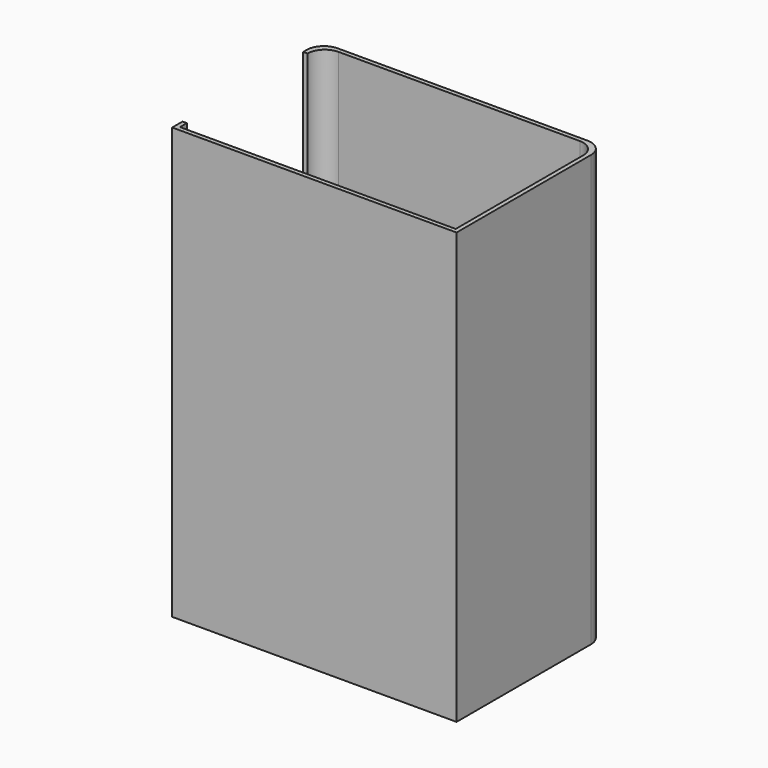
from build123d import *

# Parameters (mm, degrees)
F0_W     = 12.7
F0_H     = 25.4
F1_DEPTH = 1270


with BuildPart() as f1:
    # F0 (on Top) → F1 (new body)
    with BuildSketch(Plane.XY):
        with Locations((-412.75, 19.05)):
            Rectangle(F0_W, F0_H)
        Polygon((-406.4, 6.35), (-419.1, 6.35), (-419.1, -6.35), (419.1, -6.35), (419.1, 6.35), (406.4, 6.35), align=None)
        with BuildLine():
            Line((406.4, 476.25), (406.4, 6.35))
            Line((406.4, 6.35), (419.1, 6.35))
            Line((419.1, 6.35), (419.1, 488.95))
            ThreePointArc((419.1, 488.95), (404.221024, 524.871024), (368.3, 539.75))
            Line((368.3, 539.75), (-368.3, 539.75))
            ThreePointArc((-368.3, 539.75), (-404.221024, 524.871024), (-419.1, 488.95))
            Line((-419.1, 488.95), (-419.1, 476.25))
            Line((-419.1, 476.25), (-406.4, 476.25))
            ThreePointArc((-406.4, 476.25), (-391.521024, 512.171024), (-355.6, 527.05))
            Line((-355.6, 527.05), (355.6, 527.05))
            ThreePointArc((355.6, 527.05), (391.521024, 512.171024), (406.4, 476.25))
        make_face()
    extrude(amount=F1_DEPTH)


solid = f1.part
